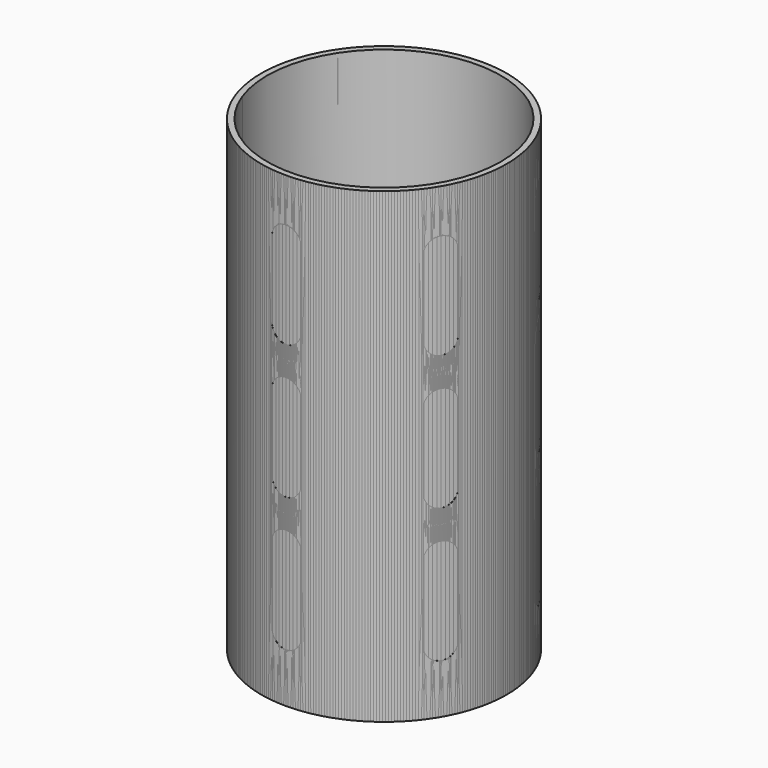
from build123d import *

# Parameters (mm, degrees)
F0_W     = 2.54
F0_H     = 203.2
F3_DEPTH = 63.5
F4_COUNT = 6


with BuildPart() as f1:
    # F0 (on Front) → F1 (revolve)
    with BuildSketch(Plane.XZ):
        with Locations((52.07, 101.6)):
            Rectangle(F0_W, F0_H)
    revolve(axis=Axis((0, 0, 16.249392), (0, 0, 1)))

    # F2 (on Front) → F3 (cut, symmetric)
    with BuildSketch(Plane.XZ):
        with BuildLine():
            Line((6.35, 144.78), (6.35, 177.8))
            ThreePointArc((6.35, 177.8), (0, 184.15), (-6.35, 177.8))
            Line((-6.35, 177.8), (-6.35, 144.78))
            ThreePointArc((-6.35, 144.78), (0, 138.43), (6.35, 144.78))
        make_face()
        with BuildLine():
            Line((6.35, 86.36), (6.35, 119.38))
            ThreePointArc((6.35, 119.38), (0, 125.73), (-6.35, 119.38))
            Line((-6.35, 119.38), (-6.35, 86.36))
            ThreePointArc((-6.35, 86.36), (0, 80.01), (6.35, 86.36))
        make_face()
        with BuildLine():
            Line((6.35, 27.94), (6.35, 60.96))
            ThreePointArc((6.35, 60.96), (0, 67.31), (-6.35, 60.96))
            Line((-6.35, 60.96), (-6.35, 27.94))
            ThreePointArc((-6.35, 27.94), (0, 21.59), (6.35, 27.94))
        make_face()
    extrude(amount=F3_DEPTH, both=True, mode=Mode.SUBTRACT)


with BuildPart() as f4_1:
    # F4: instance of F1
    add(f1.part.rotate(Axis((0, 0, 203.2), (0, 0, 1)), 1 * 360 / F4_COUNT))


with BuildPart() as f4_2:
    # F4: instance of F1
    add(f1.part.rotate(Axis((0, 0, 203.2), (0, 0, 1)), 2 * 360 / F4_COUNT))


with BuildPart() as f4_3:
    # F4: instance of F1
    add(f1.part.rotate(Axis((0, 0, 203.2), (0, 0, 1)), 3 * 360 / F4_COUNT))


with BuildPart() as f4_4:
    # F4: instance of F1
    add(f1.part.rotate(Axis((0, 0, 203.2), (0, 0, 1)), 4 * 360 / F4_COUNT))


with BuildPart() as f4_5:
    # F4: instance of F1
    add(f1.part.rotate(Axis((0, 0, 203.2), (0, 0, 1)), 5 * 360 / F4_COUNT))


solid = Compound([f1.part, f4_1.part, f4_2.part, f4_3.part, f4_4.part, f4_5.part])
